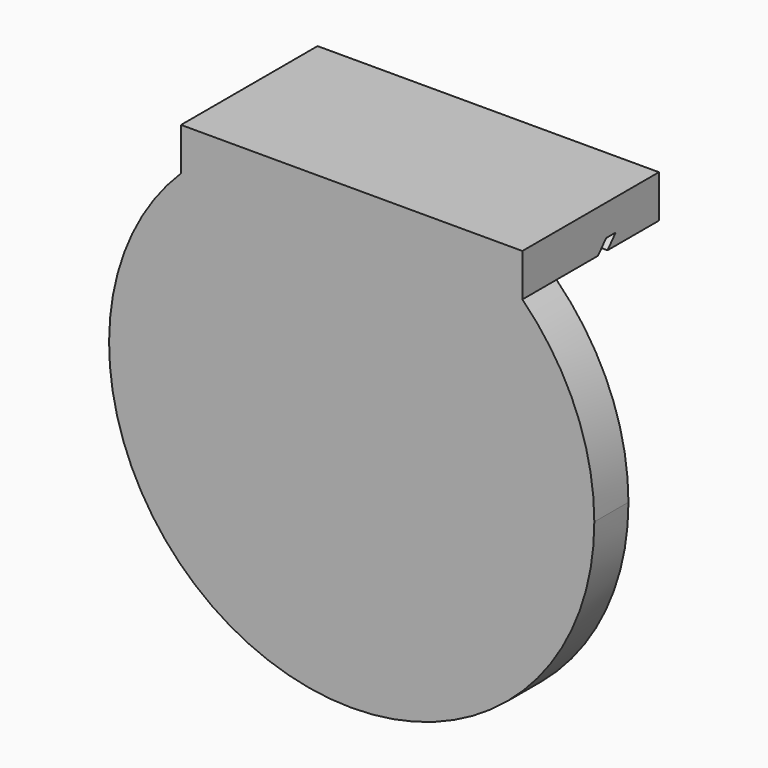
from build123d import *

# Parameters (mm, degrees)
F0_W     = 101.6
F0_H     = 50.8
F1_DEPTH = 12.7
F3_DEPTH = 101.6
F5_DEPTH = 12.7


with BuildPart() as f1:
    # F0 (on Top) → F1 (new body)
    with BuildSketch(Plane.XY):
        with Locations((-5.834938, 5.050136)):
            Rectangle(F0_W, F0_H)
    extrude(amount=F1_DEPTH)

    # F2 (on face) → F3 (cut)
    with BuildSketch(Plane.YZ.offset(44.965062)):
        Polygon((7.780036, 0), (11.336036, 0), (14.358213, 3.43069), (10.802213, 3.43069), align=None)
    extrude(amount=-F3_DEPTH, mode=Mode.SUBTRACT)

    # F4 (on face) → F5 (join)
    with BuildSketch(Plane.XZ.offset(20.349864)):
        with BuildLine():
            ThreePointArc((-56.634938, 0), (-33.640743, -117.969016), (66.378369, -51.323695))
            ThreePointArc((66.378369, -51.323695), (60.810383, -23.517889), (44.965062, 0))
            Line((44.965062, 0), (-56.634938, 0))
        make_face()
    extrude(amount=-F5_DEPTH)


solid = f1.part
